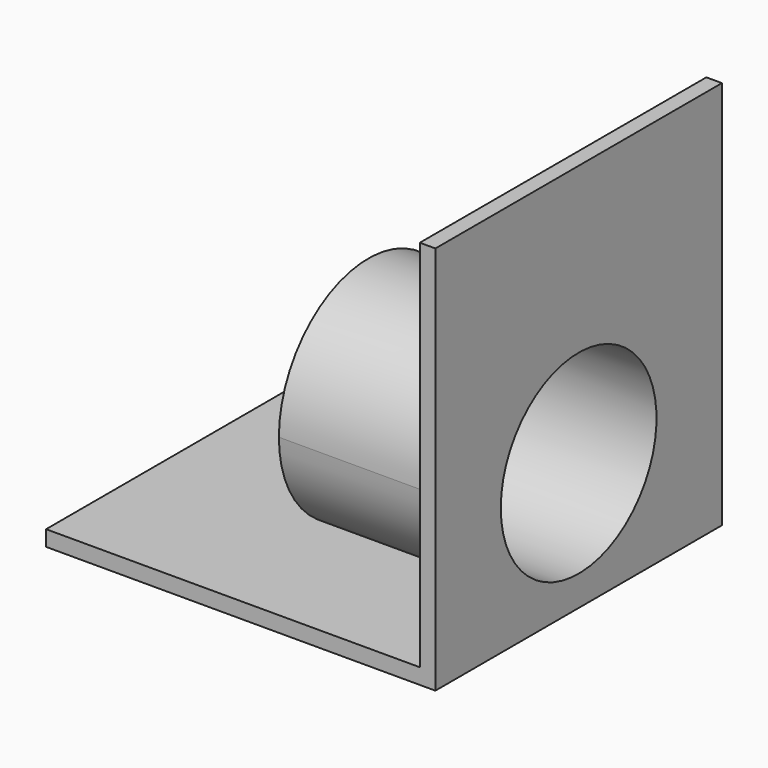
from build123d import *

# Parameters (mm, degrees)
SKETCH003_W     = 40
SKETCH003_H     = 100
PAD002_DEPTH    = 20
SKETCH004_W     = 38.4
SKETCH004_H     = 98.4
POCKET001_DEPTH = 19.2
SKETCH006_R     = 5.75
PAD003_DEPTH    = 10
SKETCH009_R     = 5
POCKET004_DEPTH = 10.8
FILLET001_R     = 5
POCKET005_DEPTH = 20.001


with BuildPart() as part:
    # Sketch003 → Pad002 (new body)
    with BuildSketch(Plane.XY):
        Rectangle(SKETCH003_W, SKETCH003_H)
    extrude(amount=PAD002_DEPTH)

    # Sketch004 (on Face6 of Pad002) → Pocket001 (cut)
    with BuildSketch(Plane.XY.offset(20)):
        Rectangle(SKETCH004_W, SKETCH004_H)
    extrude(amount=-POCKET001_DEPTH, mode=Mode.SUBTRACT)

    # Sketch006 (on Face7 of Pocket001) → Pad003 (join)
    with BuildSketch(Plane(origin=(19.2, -2, 0), x_dir=(0, -1, 0), z_dir=(-1, 0, 0))):
        with Locations((25, 6.55)):
            Circle(SKETCH006_R)
    extrude(amount=PAD003_DEPTH)

    # Sketch009 (on Face13 of Pad003) → Pocket004 (cut)
    with BuildSketch(Plane(origin=(9.2, 0, 0), x_dir=(0, -1, 0), z_dir=(-1, 0, 0))):
        with Locations((27, 6.55)):
            Circle(SKETCH009_R)
    extrude(amount=-POCKET004_DEPTH, mode=Mode.SUBTRACT)

    # Fillet001
    fillet001_edges = [part.edges().sort_by_distance(p)[0] for p in [
        (0, 50, 0),
        (0, -50, 0),
        (0, -49.2, 0.8),
        (0, 49.2, 0.8),
    ]]
    fillet(fillet001_edges, radius=FILLET001_R)

    # Sketch010 (on Face4 of Fillet001) → Pocket005 (cut, through all)
    with BuildSketch(Plane.XY.offset(20)):
        Polygon((-20, 50), (-20, -50), (20, -50), (20, -36.2), (0, -36.2), (0, -17.8), (20, -17.8), (20, 50), align=None)
    extrude(amount=-POCKET005_DEPTH, mode=Mode.SUBTRACT)


solid = part.part
